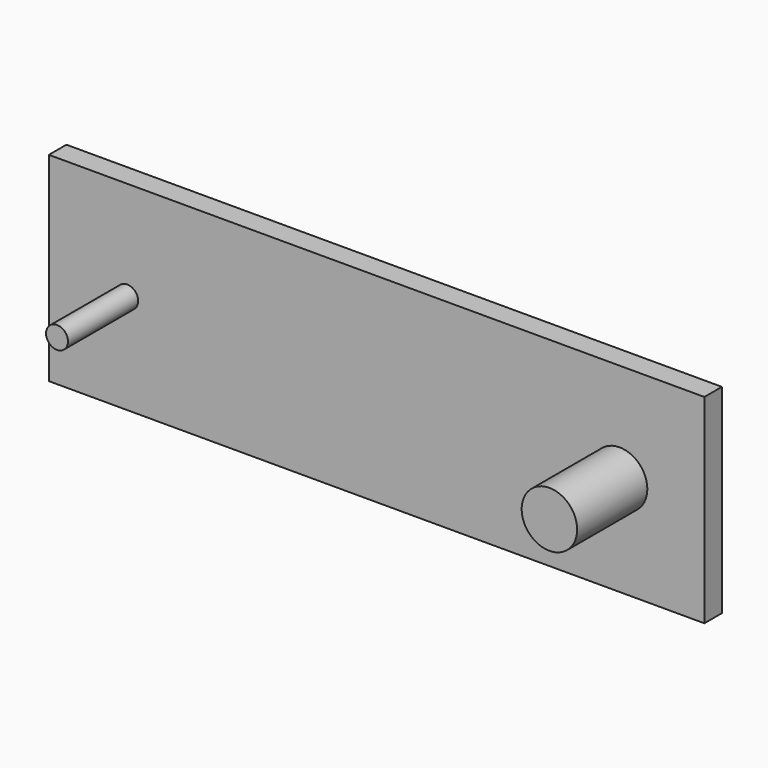
from build123d import *

# Parameters (mm, degrees)
F0_W     = 151.82612
F0_H     = 46.152602
F0_R     = 2.54
F0_R_2   = 6.423302
F1_DEPTH = 5.08
F2_DEPTH = 25.4


with BuildPart() as f1:
    # F0 (on Front) → F1 (new body)
    with BuildSketch(Plane.XZ):
        Rectangle(F0_W, F0_H)
        with Locations((-57.770312, 0)):
            Circle(F0_R, mode=Mode.SUBTRACT)
        with Locations((56.275688, 0)):
            Circle(F0_R_2, mode=Mode.SUBTRACT)
    extrude(amount=F1_DEPTH)

    # F0 (on Front) → F2 (join)
    with BuildSketch(Plane.XZ):
        with Locations((-57.770312, 0)):
            Circle(F0_R)
        with Locations((56.275688, 0)):
            Circle(F0_R_2)
    extrude(amount=F2_DEPTH)


solid = f1.part
